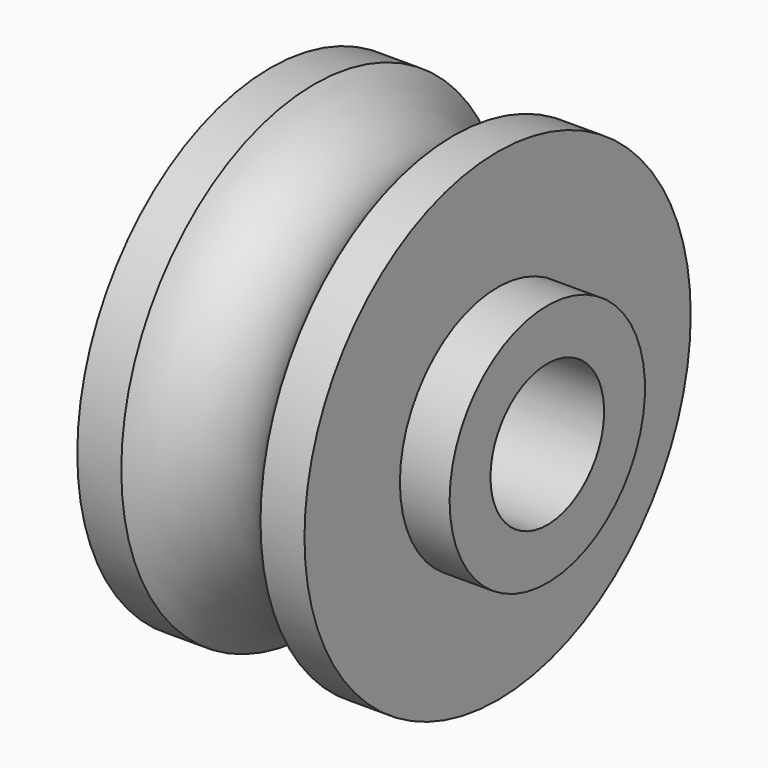
from build123d import *


with BuildPart() as f2:
    # F0 (on Top) → F2 (revolve)
    with BuildSketch(Plane.XY):
        with BuildLine():
            Line((0, 6), (0, 0))
            Line((0, 0), (1.549061, 0))
            ThreePointArc((1.549061, 0), (4, 1.27), (6.450939, 0))
            Line((6.450939, 0), (8, 0))
            Line((8, 0), (8, 4.2))
            Line((8, 4.2), (9.75, 4.2))
            Line((9.75, 4.2), (9.75, 6))
            Line((9.75, 6), (0, 6))
        make_face()
    revolve(axis=Axis((10.455161, 8.5, 0), (1, 0, 0)))


solid = f2.part
